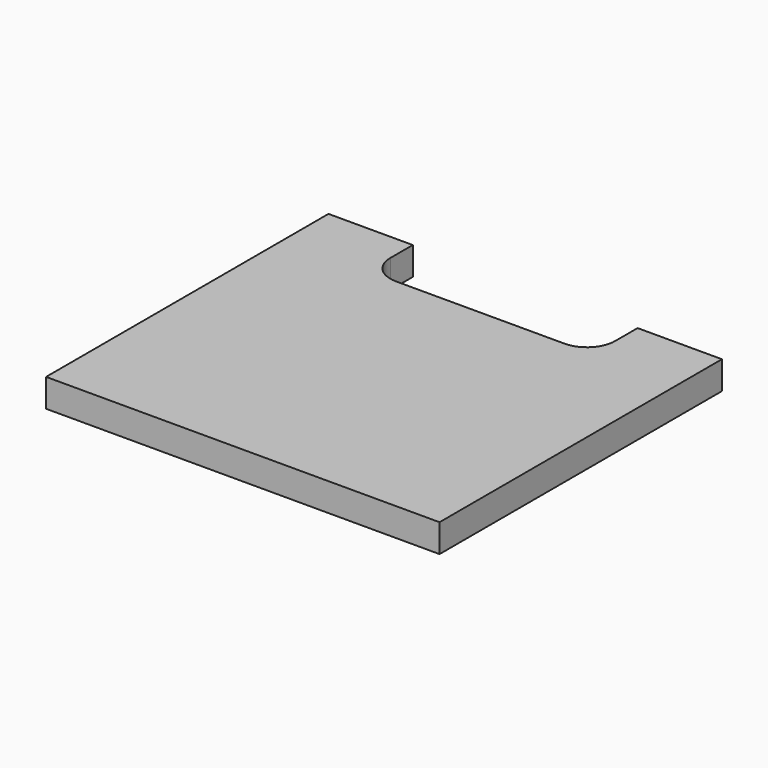
from build123d import *

# Parameters (mm, degrees)
F0_W     = 177.8
F0_H     = 159.512
F1_DEPTH = 12.7
F3_DEPTH = 12.701


with BuildPart() as f1:
    # F0 (on Top) → F1 (new body)
    with BuildSketch(Plane.XY):
        with Locations((88.9, 79.756)):
            Rectangle(F0_W, F0_H)
    extrude(amount=F1_DEPTH)

    # F2 (on face) → F3 (cut, through all)
    with BuildSketch(Plane.XY.offset(12.7)):
        with BuildLine():
            Line((139.7, 159.512), (38.1, 159.512))
            Line((38.1, 159.512), (38.1, 146.812))
            ThreePointArc((38.1, 146.812), (41.819744, 137.831744), (50.8, 134.112))
            Line((50.8, 134.112), (88.9, 134.112))
            Line((88.9, 134.112), (127, 134.112))
            ThreePointArc((127, 134.112), (135.980256, 137.831744), (139.7, 146.812))
            Line((139.7, 146.812), (139.7, 159.512))
        make_face()
    extrude(amount=-F3_DEPTH, mode=Mode.SUBTRACT)


solid = f1.part
